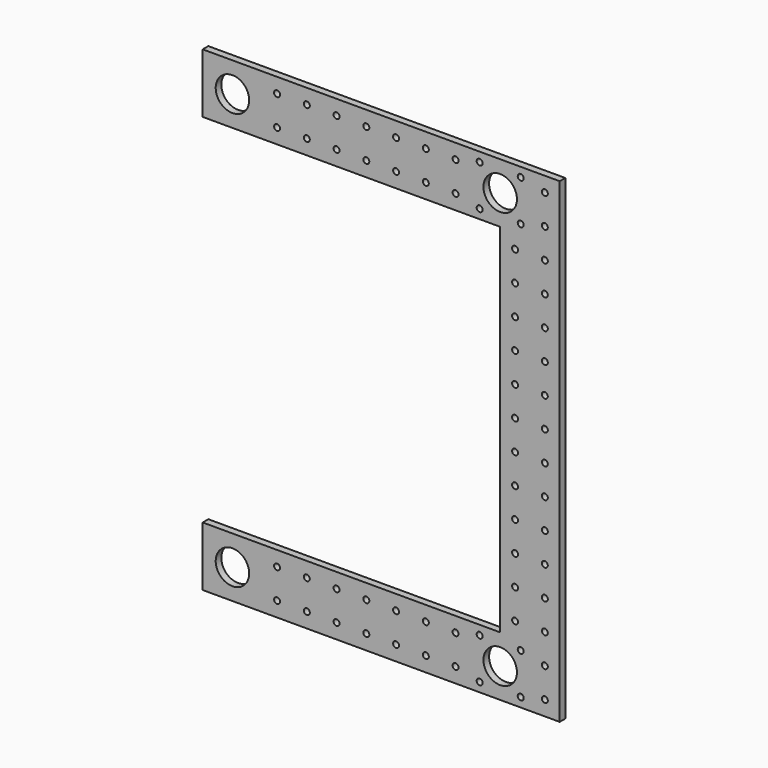
from build123d import *

# Parameters (mm, degrees)
F0_R     = 14.28115
F1_DEPTH = 6
F2_R     = 14.2875
F2_R_2   = 2.5527
F3_DEPTH = 25.4
F5_D     = 5.1054


with BuildPart() as f1:
    # F0 (on Front) → F1 (new body)
    with BuildSketch(Plane.XZ):
        Polygon((203.2, -152.4), (203.2, 152.4), (203.2, 203.2), (-101.6, 203.2), (-101.6, 152.4), (152.4, 152.4), (152.4, -152.4), (-101.6, -152.4), (-101.6, -203.2), (203.2, -203.2), align=None)
        with Locations((-76.2, -177.8)):
            Circle(F0_R, mode=Mode.SUBTRACT)
        with Locations((-76.2, 177.8)):
            Circle(F0_R, mode=Mode.SUBTRACT)
    extrude(amount=F1_DEPTH)

    # F2 (on face) → F3 (cut)
    with BuildSketch(Plane.XZ.offset(6)):
        with Locations((152.4, 177.8)):
            Circle(F2_R)
        with Locations((169.926, 195.326)):
            Circle(F2_R_2)
        with Locations((169.926, 160.274)):
            Circle(F2_R_2)
        with Locations((134.874, 160.274)):
            Circle(F2_R_2)
        with Locations((134.874, 195.326)):
            Circle(F2_R_2)
        with Locations((134.874, -195.326)):
            Circle(F2_R_2)
        with Locations((134.874, -160.274)):
            Circle(F2_R_2)
        with Locations((169.926, -160.274)):
            Circle(F2_R_2)
        with Locations((152.4, -177.8)):
            Circle(F2_R)
        with Locations((169.926, -195.326)):
            Circle(F2_R_2)
    extrude(amount=-F3_DEPTH, mode=Mode.SUBTRACT)

    # F5 (through all)
    with Locations(Plane.XZ.offset(6)):
        with Locations((114.3, 190.5), (114.3, 165.100002), (88.9, 165.100002), (-38.1, 190.5), (12.7, 190.5), (63.5, 165.100002), (88.9, 190.5), (63.5, 190.5), (-38.1, 165.100002), (38.1, 165.100002), (38.1, 190.5), (-12.7, 190.5), (12.7, 165.100002), (-12.7, 165.100002), (190.5, 165.100002), (190.5, 190.5), (114.3, -165.100002), (-38.1, -190.5), (-12.7, -165.100002), (38.1, -165.100002), (-38.1, -165.100002), (-12.7, -190.5), (88.9, -190.5), (12.7, -190.5), (63.5, -165.100002), (12.7, -165.100002), (114.3, -190.5), (88.9, -165.100002), (38.1, -190.5), (63.5, -190.5), (190.5, -165.100002), (190.5, -190.5), (190.5, 139.700004), (165.100002, 139.700004), (190.5, 114.300007), (165.100002, 114.300007), (190.5, 88.900009), (165.100002, 88.900009), (190.5, 63.500011), (165.100002, 63.500011), (190.5, 38.100013), (165.100002, 38.100013), (190.5, 12.700015), (165.100002, 12.700015), (190.5, -12.699983), (165.100002, -12.699983), (190.5, -38.09998), (165.100002, -38.09998), (190.5, -63.499978), (165.100002, -63.499978), (190.5, -88.899976), (165.100002, -88.899976), (190.5, -114.299974), (165.100002, -114.299974), (190.5, -139.699972), (165.100002, -139.699972)):
            Hole(F5_D / 2)


solid = f1.part
